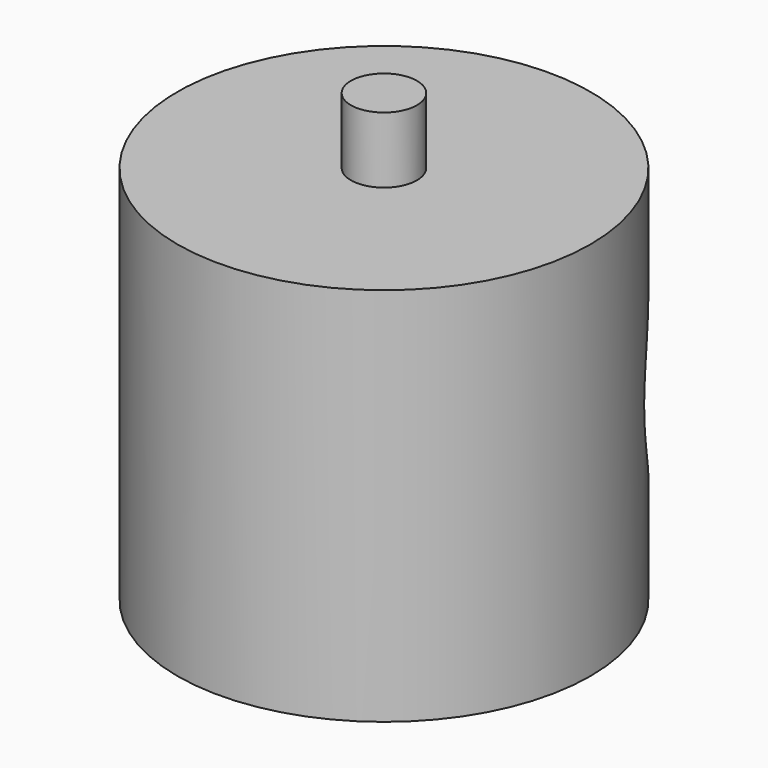
from build123d import *

# Parameters (mm, degrees)
SKETCH_R       = 25
PAD_DEPTH      = 46
CYLINDER_R     = 22
CYLINDER_DEPTH = 22
SKETCH001_R    = 3.5
SKETCH001_R_2  = 1.2
POCKET_DEPTH   = 23
PAD001_START   = 46
SKETCH002_R    = 4
PAD001_DEPTH   = 8


with BuildPart() as part:
    # Sketch → Pad (new body)
    with BuildSketch(Plane.XY):
        Circle(SKETCH_R)
    extrude(amount=PAD_DEPTH)

    # Sphere → Sphere (revolve, cut)
    with BuildSketch(Plane(origin=(0, 3, 23), x_dir=(1, 0, 0), z_dir=(0, -1, 0))):
        with BuildLine():
            ThreePointArc((0, -22), (22, 0), (0, 22))
            Line((0, 22), (0, -22))
        make_face()
    revolve(axis=Axis((0, 3, 23), (0, 0, 1)), mode=Mode.SUBTRACT)

    # Cylinder → Cylinder (cut)
    with BuildSketch(Plane(origin=(0, 4, 23), x_dir=(1, 0, 0), z_dir=(0, 1, 0))):
        Circle(CYLINDER_R)
    extrude(amount=CYLINDER_DEPTH, mode=Mode.SUBTRACT)

    # Sketch001 → Pocket (cut)
    with BuildSketch(Plane.XY):
        Circle(SKETCH001_R)
        with Locations((7.5, 0)):
            Circle(SKETCH001_R_2)
        with Locations((12.5, 0)):
            Circle(SKETCH001_R_2)
        with Locations((0, 7.5)):
            Circle(SKETCH001_R_2)
        with Locations((0, 12.5)):
            Circle(SKETCH001_R_2)
        with Locations((-7.5, 0)):
            Circle(SKETCH001_R_2)
        with Locations((-12.5, 0)):
            Circle(SKETCH001_R_2)
        with Locations((0, -7.5)):
            Circle(SKETCH001_R_2)
        with Locations((0, -12.5)):
            Circle(SKETCH001_R_2)
    extrude(amount=POCKET_DEPTH, mode=Mode.SUBTRACT)

    # Sketch002 → Pad001 (join)
    with BuildSketch(Plane.XY.offset(PAD001_START)):
        Circle(SKETCH002_R)
    extrude(amount=PAD001_DEPTH)


solid = part.part
